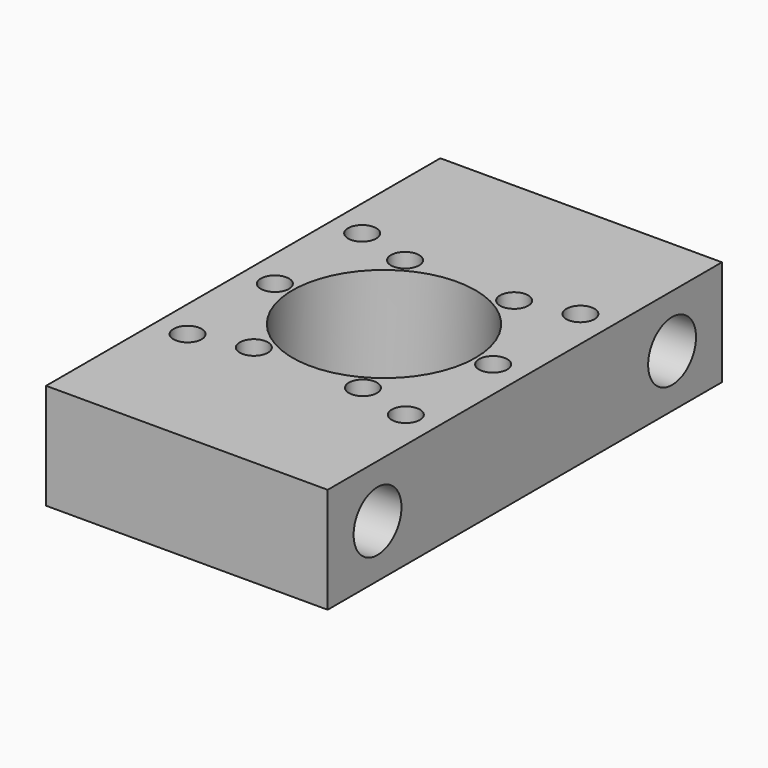
from build123d import *

# Parameters (mm, degrees)
F0_R     = 2
F0_R_2   = 13
F1_DEPTH = 15
F2_R     = 4.25
F3_DEPTH = 40


with BuildPart() as f1:
    # F0 (on Top) → F1 (new body)
    with BuildSketch(Plane.XY):
        Polygon((20, -35), (20, -19.5), (20, 19.5), (20, 35), (-20, 35), (-20, 19.5), (-20, -19.5), (-20, -35), align=None)
        with Locations((-15.5, -15.5)):
            Circle(F0_R, mode=Mode.SUBTRACT)
        with Locations((-7.75, -13.423394)):
            Circle(F0_R, mode=Mode.SUBTRACT)
        with Locations((7.75, -13.423394)):
            Circle(F0_R, mode=Mode.SUBTRACT)
        with Locations((15.5, -15.5)):
            Circle(F0_R, mode=Mode.SUBTRACT)
        with Locations((-15.5, 0)):
            Circle(F0_R, mode=Mode.SUBTRACT)
        with Locations((-15.5, 15.5)):
            Circle(F0_R, mode=Mode.SUBTRACT)
        with Locations((-7.75, 13.423394)):
            Circle(F0_R, mode=Mode.SUBTRACT)
        Circle(F0_R_2, mode=Mode.SUBTRACT)
        with Locations((7.75, 13.423394)):
            Circle(F0_R, mode=Mode.SUBTRACT)
        with Locations((15.5, 0)):
            Circle(F0_R, mode=Mode.SUBTRACT)
        with Locations((15.5, 15.5)):
            Circle(F0_R, mode=Mode.SUBTRACT)
    extrude(amount=F1_DEPTH)

    # F2 (on face) → F3 (cut, through all)
    with BuildSketch(Plane.YZ.offset(20)):
        with Locations((-26.15, 7.5)):
            Circle(F2_R)
        with Locations((26.15, 7.5)):
            Circle(F2_R)
    extrude(amount=-F3_DEPTH, mode=Mode.SUBTRACT)


solid = f1.part
